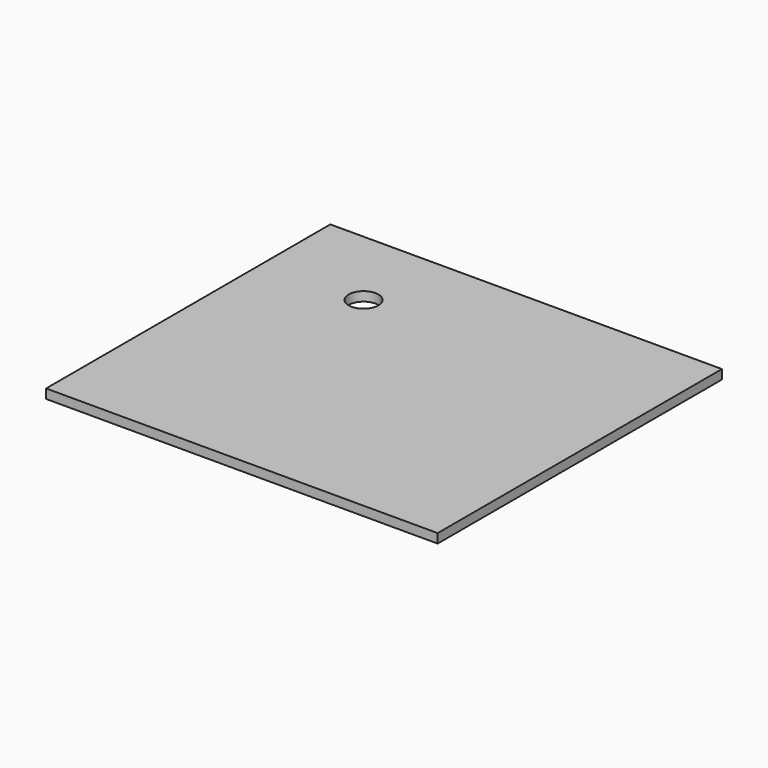
from build123d import *

# Parameters (mm, degrees)
F0_W     = 211.319312
F0_H     = 191.726804
F1_DEPTH = 2.5
F2_R     = 8.025773
F3_DEPTH = 5.001


with BuildPart() as f1:
    # F0 (on Top) → F1 (new body, symmetric)
    with BuildSketch(Plane.XY):
        Rectangle(F0_W, F0_H)
    extrude(amount=F1_DEPTH, both=True)

    # F2 (on face) → F3 (cut, through all)
    with BuildSketch(Plane.XY.offset(2.5)):
        with Locations((-51.65787, 50.775506)):
            Circle(F2_R)
    extrude(amount=-F3_DEPTH, mode=Mode.SUBTRACT)


solid = f1.part
